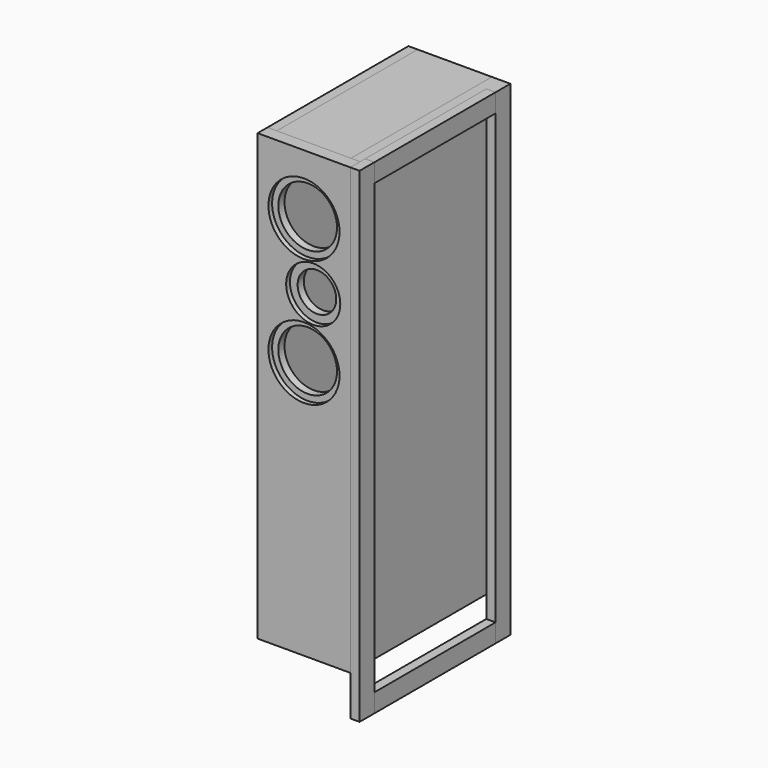
from build123d import *

# Parameters (mm, degrees)
F2_W      = 190.5
F2_H      = 914.4
F3_DEPTH  = 25.4
F4_R      = 73.025
F4_R_2    = 55.5625
F5_DEPTH  = 9.525
F6_R      = 60.325
F6_R_2    = 39.6875
F7_DEPTH  = 15.876
F8_W      = 361.95
F8_H      = 914.4
F9_DEPTH  = 19.05
F11_W     = 19.05
F11_H     = 355.6
F12_DEPTH = 152.4
F13_W     = 361.95
F13_H     = 19.05
F14_DEPTH = 152.4
F16_DEPTH = 152.4
F17_W     = 342.9
F17_H     = 19.05
F18_DEPTH = 152.4
F20_DEPTH = 152.4
F22_DEPTH = 152.4
F23_W     = 38.1
F23_H     = 996.95
F24_DEPTH = 19.05
F25_W     = 38.1
F25_H     = 996.95
F26_DEPTH = 19.05
F27_W     = 311.15
F27_H     = 38.1
F28_DEPTH = 19.05
F29_W     = 311.15
F29_H     = 38.1
F30_DEPTH = 19.05


with BuildPart() as f3:
    # F2 (on Front) → F3 (new body)
    with BuildSketch(Plane.XZ):
        with Locations((0, 539.75)):
            Rectangle(F2_W, F2_H)
    extrude(amount=F3_DEPTH)

    # F4 (on face) → F5 (cut)
    with BuildSketch(Plane.XZ.offset(25.4)):
        with Locations((0, 873.125)):
            Circle(F4_R)
        with Locations((19.05, 742.95)):
            Circle(F4_R_2)
        with Locations((0, 612.775)):
            Circle(F4_R)
    extrude(amount=-F5_DEPTH, mode=Mode.SUBTRACT)

    # F6 (on face) → F7 (cut, through all)
    with BuildSketch(Plane.XZ.offset(15.875)):
        with Locations((0, 873.125)):
            Circle(F6_R)
        with Locations((19.05, 742.95)):
            Circle(F6_R_2)
        with Locations((0, 612.775)):
            Circle(F6_R)
    extrude(amount=-F7_DEPTH, mode=Mode.SUBTRACT)


with BuildPart() as f9:
    # F8 (on face) → F9 (new body)
    with BuildSketch(Plane.YZ.offset(95.25)):
        with Locations((180.975, 539.75)):
            Rectangle(F8_W, F8_H)
    extrude(amount=-F9_DEPTH)


with BuildPart() as f10_1:
    # F10: instance of F9
    add(f9.part.mirror(Plane.YZ))


with BuildPart() as f12:
    # F11 (on face) → F12 (new body)
    with BuildSketch(Plane.YZ.offset(-76.2)):
        with Locations((352.425, 260.35)):
            Rectangle(F11_W, F11_H)
    extrude(amount=F12_DEPTH)


with BuildPart() as f14:
    # F13 (on face) → F14 (new body)
    with BuildSketch(Plane.YZ.offset(-76.2)):
        with Locations((180.975, 987.425)):
            Rectangle(F13_W, F13_H)
    extrude(amount=F14_DEPTH)


with BuildPart() as f16:
    # F15 (on face) → F16 (new body)
    with BuildSketch(Plane.YZ.offset(-76.2)):
        with BuildLine():
            Line((202.4126065958, 264.180082139), (361.95, 977.9))
            Line((361.95, 977.9), (342.4298804353, 977.9))
            Line((342.4298804353, 977.9), (183.821403873, 268.3357627476))
            ThreePointArc((183.821403873, 268.3357627476), (191.0391649301, 256.9623210819), (202.4126065958, 264.180082139))
        make_face()
    extrude(amount=F16_DEPTH)


with BuildPart() as f18:
    # F17 (on face) → F18 (new body)
    with BuildSketch(Plane.YZ.offset(-76.2)):
        with Locations((171.45, 92.075)):
            Rectangle(F17_W, F17_H)
    extrude(amount=F18_DEPTH)


with BuildPart() as f20:
    # F19 (on face) → F20 (new body)
    with BuildSketch(Plane.YZ.offset(-76.2)):
        Polygon((342.9, 200.3828173318), (244.1171826682, 101.6), (271.0579510314, 101.6), (342.9, 173.4420489686), align=None)
    extrude(amount=F20_DEPTH)


with BuildPart() as f22:
    # F21 (on face) → F22 (new body)
    with BuildSketch(Plane.YZ.offset(-76.2)):
        Polygon((116.7433295739, 101.6), (0, 218.3433295739), (0, 191.4025612107), (89.8025612107, 101.6), align=None)
    extrude(amount=F22_DEPTH)


with BuildPart() as f24:
    # F23 (on face) → F24 (new body)
    with BuildSketch(Plane.YZ.offset(95.25)):
        with Locations((-6.35, 498.475)):
            Rectangle(F23_W, F23_H)
    extrude(amount=F24_DEPTH)


with BuildPart() as f9_1:
    add(f9.part)

    # F25 (on face) → F26 (join)
    with BuildSketch(Plane.YZ.offset(95.25)):
        with Locations((342.9, 498.475)):
            Rectangle(F25_W, F25_H)
    extrude(amount=F26_DEPTH)


with BuildPart() as f28:
    # F27 (on face) → F28 (new body)
    with BuildSketch(Plane.YZ.offset(95.25)):
        with Locations((168.275, 977.9)):
            Rectangle(F27_W, F27_H)
    extrude(amount=F28_DEPTH)


with BuildPart() as f30:
    # F29 (on face) → F30 (new body)
    with BuildSketch(Plane.YZ.offset(95.25)):
        with Locations((168.275, 19.05)):
            Rectangle(F29_W, F29_H)
    extrude(amount=F30_DEPTH)


solid = Compound([f3.part, f10_1.part, f12.part, f14.part, f16.part, f18.part, f20.part, f22.part, f24.part, f9_1.part, f28.part, f30.part])
